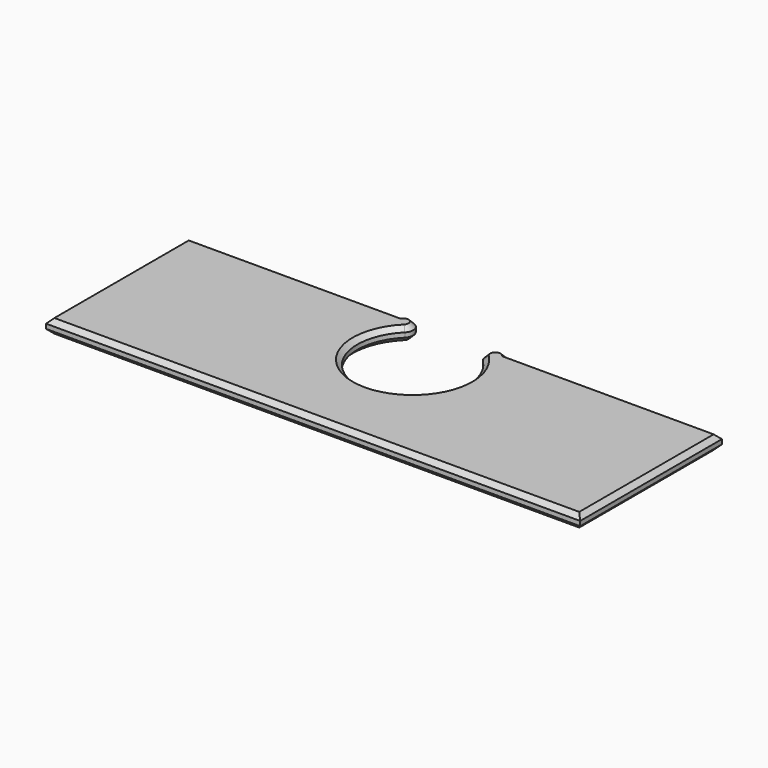
from build123d import *

# Parameters (mm, degrees)
F1_DEPTH = 1.5
F2_SIZE  = 1


with BuildPart() as f1:
    # F0 (on Top) → F1 (new body, symmetric)
    with BuildSketch(Plane.XY):
        with BuildLine():
            ThreePointArc((8.485281, 8.485281), (0, -12), (-8.485281, 8.485281))
            ThreePointArc((-8.485281, 8.485281), (-8.485281, 11.485281), (-11.485281, 11.485281))
            Line((-11.485281, 11.485281), (-58, 11.485281))
            Line((-58, 11.485281), (-58, -27))
            Line((-58, -27), (58, -27))
            Line((58, -27), (58, 11.485281))
            Line((58, 11.485281), (11.485281, 11.485281))
            ThreePointArc((11.485281, 11.485281), (8.485281, 11.485281), (8.485281, 8.485281))
        make_face()
    extrude(amount=F1_DEPTH, both=True)

    # F2
    f2_edges = [f1.edges().sort_by_distance(p)[0] for p in [
        (0, -12, 1.5),
        (8.485281, 11.485281, 1.5),
        (34.742641, 11.485281, 1.5),
        (58, -7.757359, 1.5),
        (0, -27, 1.5),
        (-58, -7.757359, 1.5),
        (-34.742641, 11.485281, 1.5),
        (-8.485281, 11.485281, 1.5),
        (-34.742641, 11.485281, -1.5),
        (-58, -7.757359, -1.5),
        (0, -27, -1.5),
        (0, -12, -1.5),
        (-8.485281, 11.485281, -1.5),
        (58, -7.757359, -1.5),
        (34.742641, 11.485281, -1.5),
        (8.485281, 11.485281, -1.5),
    ]]
    chamfer(f2_edges, length=F2_SIZE)


solid = f1.part
